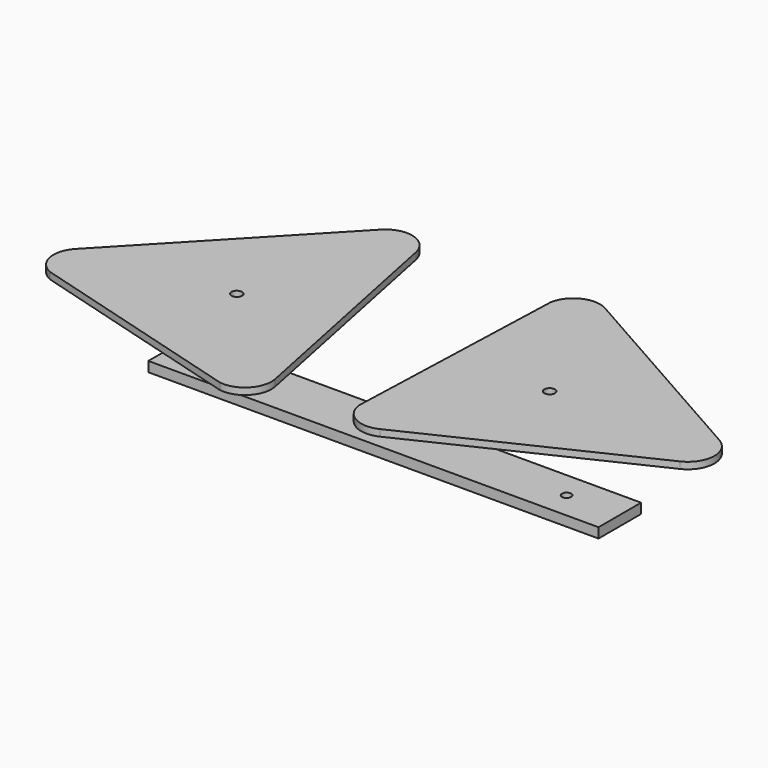
from build123d import *

# Parameters (mm, degrees)
SKETCH001_R                = 2.54
EXTRUDE001_DEPTH           = 3.175
EXTRUDE001_ROLL_ANGLE      = -90
EXTRUDE001_PLACEMENT_ANGLE = -16
SKETCH_W                   = 214.884
SKETCH_H                   = 25.4
SKETCH_R                   = 4.960938
SKETCH_R_2                 = 2.182812
EXTRUDE_DEPTH              = 4.7625
SKETCH002_R                = 2.54
EXTRUDE002_DEPTH           = 3.175
EXTRUDE002_ROLL_ANGLE      = 90
EXTRUDE002_PLACEMENT_ANGLE = 88


with BuildPart() as extrude001:
    # Sketch001 → Extrude001 (new body)
    with BuildSketch(Plane.XZ):
        with BuildLine():
            ThreePointArc((107.810934, -12.593804), (117.43413, -5.869789), (117.434117, 5.869815))
            Line((64.34813, 107.723789), (117.434117, 5.869815))
            ThreePointArc((64.34813, 107.723789), (53.086, 114.554), (41.82387, 107.723789))
            Line((-11.26213, 5.869789), (41.82387, 107.723789))
            ThreePointArc((-11.26213, 5.869789), (-11.26213, -5.869789), (-1.638963, -12.5938))
            Line((-1.638963, -12.5938), (107.810934, -12.593804))
        make_face()
        with Locations((53.086, 33.951333)):
            Circle(SKETCH001_R, mode=Mode.SUBTRACT)
    extrude(amount=EXTRUDE001_DEPTH)


with BuildPart() as extrude001_1:
    # Extrude001 roll: moved
    add(extrude001.part.rotate(Axis((0, 0, 0), (1, 0, 0)), EXTRUDE001_ROLL_ANGLE))


with BuildPart() as extrude001_2:
    # Extrude001 placement: moved
    add(extrude001_1.part.moved(Location((-17.571375, -18.719645, 43.999912))).rotate(Axis((-17.571375, -18.719645, 43.999912), (0, 0, 1)), EXTRUDE001_PLACEMENT_ANGLE))


with BuildPart() as extrude_body:
    # Sketch → Extrude (new body)
    with BuildSketch(Plane.XY):
        with Locations((107.442, 12.7)):
            Rectangle(SKETCH_W, SKETCH_H)
        with Locations((107.442, 12.7)):
            Circle(SKETCH_R, mode=Mode.SUBTRACT)
        with Locations((25.4, 12.7)):
            Circle(SKETCH_R_2, mode=Mode.SUBTRACT)
        with Locations((189.484, 12.7)):
            Circle(SKETCH_R_2, mode=Mode.SUBTRACT)
    extrude(amount=EXTRUDE_DEPTH)


with BuildPart() as extrude002:
    # Sketch002 → Extrude002 (new body)
    with BuildSketch(Plane.XZ):
        with BuildLine():
            ThreePointArc((107.810934, -12.593804), (117.43413, -5.869789), (117.434117, 5.869815))
            Line((64.34813, 107.723789), (117.434117, 5.869815))
            ThreePointArc((64.34813, 107.723789), (53.086, 114.554), (41.82387, 107.723789))
            Line((-11.26213, 5.869789), (41.82387, 107.723789))
            ThreePointArc((-11.26213, 5.869789), (-11.26213, -5.869789), (-1.638963, -12.5938))
            Line((-1.638963, -12.5938), (107.810934, -12.593804))
        make_face()
        with Locations((53.086, 33.951333)):
            Circle(SKETCH002_R, mode=Mode.SUBTRACT)
    extrude(amount=EXTRUDE002_DEPTH)


with BuildPart() as extrude002_1:
    # Extrude002 roll: moved
    add(extrude002.part.rotate(Axis((0, 0, 0), (1, 0, 0)), EXTRUDE002_ROLL_ANGLE))


with BuildPart() as extrude002_2:
    # Extrude002 placement: moved
    add(extrude002_1.part.moved(Location((156.60883, -52.915209, 54.99989))).rotate(Axis((156.60883, -52.915209, 54.99989), (0, 0, 1)), EXTRUDE002_PLACEMENT_ANGLE))


solid = Compound([extrude001_2.part, extrude_body.part, extrude002_2.part])
